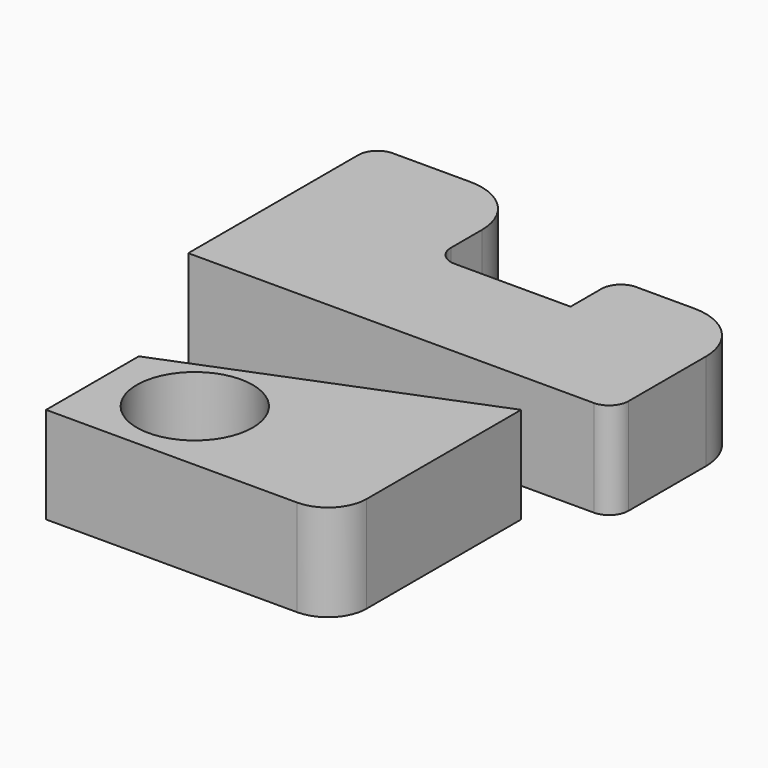
from build123d import *

# Parameters (mm, degrees)
F0_R     = 15
F1_DEPTH = 25


with BuildPart() as f1:
    # F0 (on Top) → F1 (new body)
    with BuildSketch(Plane.XY):
        with BuildLine():
            Line((-43.328102, -30), (-43.328102, -60))
            Line((-43.328102, -60), (21.671898, -60))
            ThreePointArc((21.671898, -60), (28.742966, -57.071068), (31.671898, -50))
            Line((31.671898, -50), (31.671898, 0))
            Line((31.671898, 0), (-43.328102, -30))
        make_face()
        with Locations((-20.828102, -40)):
            Circle(F0_R, mode=Mode.SUBTRACT)
        with BuildLine():
            Line((-63.736163, 66.526753), (-63.736163, 11.526753))
            Line((-63.736163, 11.526753), (41.263837, 11.526753))
            ThreePointArc((41.263837, 11.526753), (44.799371, 12.991219), (46.263837, 16.526753))
            Line((46.263837, 16.526753), (46.263837, 41.526753))
            ThreePointArc((46.263837, 41.526753), (41.870439, 52.133355), (31.263837, 56.526753))
            Line((31.263837, 56.526753), (16.263837, 56.526753))
            ThreePointArc((16.263837, 56.526753), (12.728303, 55.062287), (11.263837, 51.526753))
            Line((11.263837, 51.526753), (11.263837, 41.526753))
            Line((11.263837, 41.526753), (-18.736163, 41.526753))
            ThreePointArc((-18.736163, 41.526753), (-22.271697, 42.991219), (-23.736163, 46.526753))
            Line((-23.736163, 46.526753), (-23.736163, 56.526753))
            ThreePointArc((-23.736163, 56.526753), (-28.129561, 67.133355), (-38.736163, 71.526753))
            Line((-38.736163, 71.526753), (-58.736163, 71.526753))
            ThreePointArc((-58.736163, 71.526753), (-62.271697, 70.062287), (-63.736163, 66.526753))
        make_face()
    extrude(amount=F1_DEPTH)


solid = f1.part
